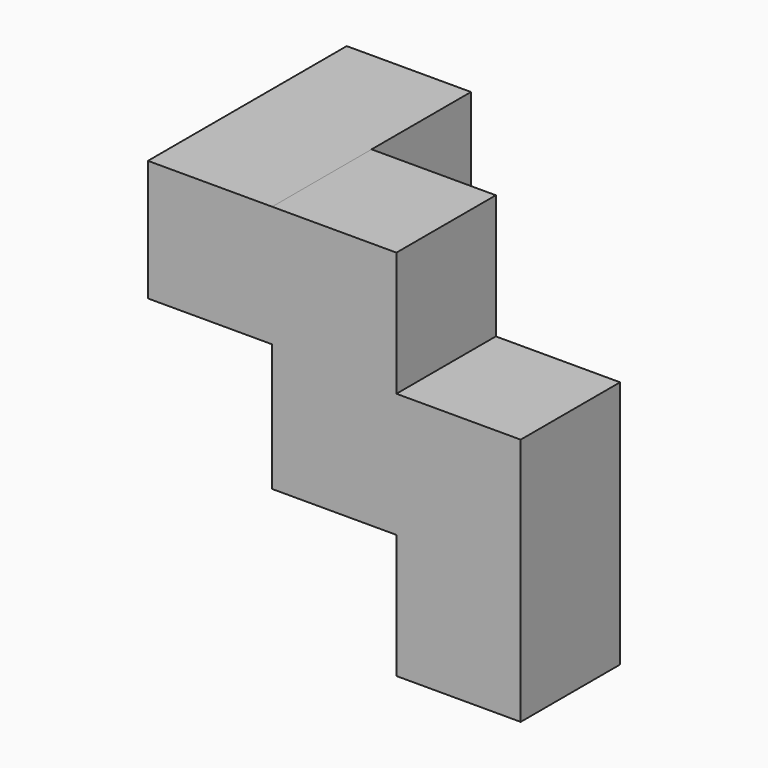
from build123d import *

# Parameters (mm, degrees)
F1_DEPTH = 19.05
F2_W     = 19.05
F2_H     = 18.575629
F3_DEPTH = 19.05


with BuildPart() as f1:
    # F0 (on Front) → F1 (new body)
    with BuildSketch(Plane.XZ):
        Polygon((-34.164888, 18.575629), (-53.214888, 18.575629), (-53.214888, -19.524371), (-34.164888, -19.524371), (-34.164888, -0.474371), align=None)
        Polygon((-15.114888, -0.474371), (-34.164888, -0.474371), (-34.164888, -19.524371), (-34.164888, -38.574371), (-15.114888, -38.574371), align=None)
    extrude(amount=-F1_DEPTH)

    # F2 (on face) → F3 (join)
    with BuildSketch(Plane(origin=(-53.214888, 0, 0), x_dir=(0, -1, 0), z_dir=(-1, 0, 0))):
        with Locations((-9.525, 9.287814)):
            Rectangle(F2_W, F2_H)
        with Locations((-28.575, 9.287814)):
            Rectangle(F2_W, F2_H)
    extrude(amount=F3_DEPTH)


solid = f1.part
